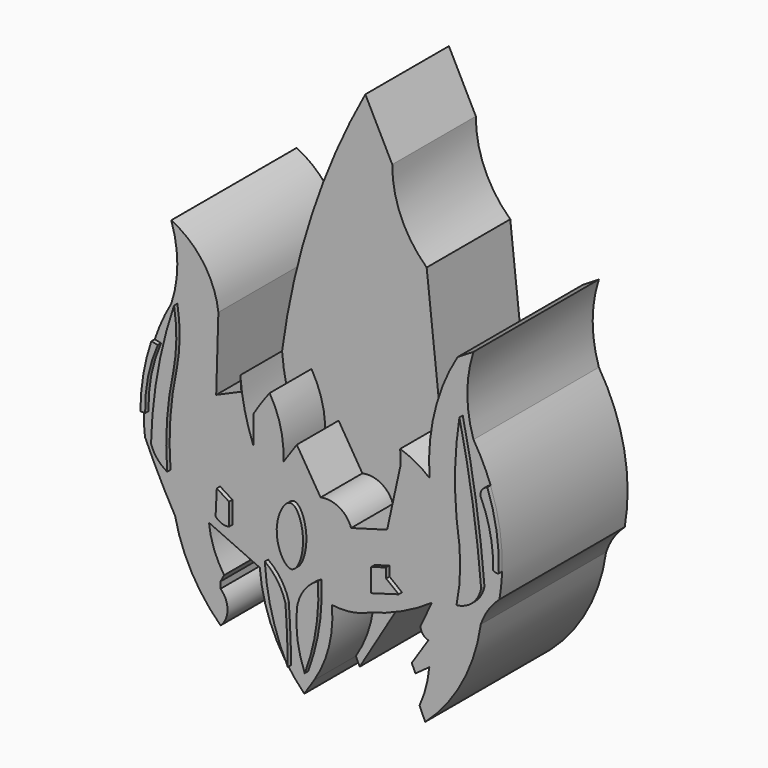
from build123d import *

# Parameters (mm, degrees)
F1_DEPTH = 19.05
F3_DEPTH = 6.35
F5_DEPTH = 0.508
F7_DEPTH = 19.05


with BuildPart() as f1:
    # F0 (on Front) → F1 (new body)
    with BuildSketch(Plane.XZ):
        with BuildLine():
            Line((29.9496520311, 63.0492046475), (26.6780648381, 69.4930180907))
            ThreePointArc((26.6780648381, 69.4930180907), (20.196677745, 54.5788891456), (16.5568571538, 38.7298725545))
            Line((16.5568571538, 38.7298725545), (16.690030694, 36.9986146688))
            Line((16.690030694, 36.9986146688), (13.6270336807, 35.6668755412))
            Line((13.6270336807, 35.6668755412), (13.8933807611, 44.5895195007))
            ThreePointArc((13.8933807611, 44.5895195007), (12.059862786, 49.3226978569), (8.1669082865, 52.579946816))
            ThreePointArc((8.1669082865, 52.579946816), (8.9030534245, 48.1186248362), (8.1669082865, 43.6573028564))
            ThreePointArc((8.1669082865, 43.6573028564), (5.3520163839, 36.253752533), (4.9707368016, 28.3423177898))
            ThreePointArc((4.9707368016, 28.3423177898), (6.7166015974, 24.6666402647), (8.6351158097, 21.0780538619))
            ThreePointArc((8.6351158097, 21.0780538619), (10.6419239697, 15.6995218737), (14.1597287729, 11.1629003659))
            ThreePointArc((14.1597287729, 11.1629003659), (15.0065668093, 13.1274904124), (14.1597287729, 15.092080459))
            Line((14.1597287729, 15.092080459), (14.1597287729, 15.8760100603))
            Line((14.1597287729, 15.8760100603), (14.5907411352, 16.6818480939))
            ThreePointArc((14.5907411352, 16.6818480939), (13.3602258193, 19.0818671101), (12.7488272265, 21.7087380588))
            Line((12.7488272265, 21.7087380588), (18.9269129187, 18.9074929804))
            ThreePointArc((18.9269129187, 18.9074929804), (20.5891941392, 12.5557803876), (24.337535724, 7.1652918123))
            Line((24.337535724, 7.1652918123), (25.5271047354, 9.0072061867))
            Line((25.5271047354, 9.0072061867), (25.9875822812, 8.0095026642))
            Line((25.9875822812, 8.0095026642), (32.2040431201, 18.4086412191))
            ThreePointArc((32.2040431201, 18.4086412191), (36.1728690985, 19.8478549134), (39.840310812, 21.9389759004))
            Line((39.840310812, 21.9389759004), (38.4588763118, 18.9842395484))
            ThreePointArc((38.4588763118, 18.9842395484), (38.7377638768, 18.2275381272), (39.4182056189, 17.7946705371))
            Line((39.4182056189, 17.7946705371), (37.4002235949, 14.7152889057))
            Line((37.4002235949, 14.7152889057), (37.8449037671, 13.7271098793))
            Line((37.8449037671, 13.7271098793), (39.5333245397, 14.955053106))
            ThreePointArc((39.5333245397, 14.955053106), (39.1304643178, 12.6593692531), (38.343757391, 10.4653881863))
            Line((38.343757391, 10.4653881863), (39.0344746411, 8.9304596186))
            ThreePointArc((39.0344746411, 8.9304596186), (43.5369991038, 14.6406633619), (45.7881577313, 21.5552449226))
            ThreePointArc((45.7881577313, 21.5552449226), (46.6985474779, 23.4097692807), (48.0521768332, 24.9704606831))
            ThreePointArc((48.0521768332, 24.9704606831), (47.9784626543, 33.30312196), (44.9055731297, 41.0488322377))
            ThreePointArc((44.9055731297, 41.0488322377), (44.1544418608, 45.7455441356), (44.9055731297, 50.4422560334))
            Line((44.9055731297, 50.4422560334), (42.9699420929, 49.2538958788))
            ThreePointArc((42.9699420929, 49.2538958788), (40.1761373605, 42.4912587379), (39.559867233, 35.2002494037))
            ThreePointArc((39.559867233, 35.2002494037), (37.8715608426, 36.3530467771), (35.9947867692, 37.1636264026))
            Line((35.9947867692, 37.1636264026), (34.1347455978, 53.3873215318))
            ThreePointArc((34.1347455978, 53.3873215318), (31.023684759, 57.7770885722), (29.9496520311, 63.0492046475))
        make_face()
    extrude(amount=F1_DEPTH)

    # F2 (on face) → F3 (cut)
    with BuildSketch(Plane.XZ.offset(19.05)):
        with BuildLine():
            Line((36.058422178, 35.5022437871), (34.1347455978, 53.3873215318))
            ThreePointArc((34.1347455978, 53.3873215318), (31.023684759, 57.7770885722), (29.9496520311, 63.0492046475))
            Line((29.9496520311, 63.0492046475), (26.6780648381, 69.4930180907))
            ThreePointArc((26.6780648381, 69.4930180907), (20.196677745, 54.5788891456), (16.5568571538, 38.7298725545))
            ThreePointArc((16.5568571538, 38.7298725545), (17.0958351547, 35.1595534204), (18.1488934904, 31.7057520151))
            Line((18.1488934904, 31.7057520151), (18.1488934904, 35.0895822048))
            ThreePointArc((18.1488934904, 35.0895822048), (19.0937254429, 36.5651386602), (20.1296713203, 37.9782170057))
            ThreePointArc((20.1296713203, 37.9782170057), (21.4851518176, 34.6808703775), (21.7803176492, 31.128026545))
            Line((21.7803176492, 31.128026545), (23.4309658408, 33.5214659572))
            Line((23.4309658408, 33.5214659572), (26.3196006417, 28.8171190768))
            ThreePointArc((26.3196006417, 28.8171190768), (28.572476319, 28.4980796307), (30.0335567445, 26.753809303))
            Line((30.0335567445, 26.753809303), (34.4077758491, 27.9917959124))
            Line((34.4077758491, 27.9917959124), (36.058422178, 35.5022437871))
        make_face()
        with BuildLine():
            ThreePointArc((27.7005694807, 17.765365541), (27.3434417277, 13.2052238558), (25.5271047354, 9.0072061867))
            Line((25.5271047354, 9.0072061867), (25.9875822812, 8.0095026642))
            Line((25.9875822812, 8.0095026642), (32.2040431201, 18.4086412191))
            ThreePointArc((32.2040431201, 18.4086412191), (29.9985149549, 17.7635037289), (27.7005694807, 17.765365541))
        make_face()
    extrude(amount=-F3_DEPTH, mode=Mode.SUBTRACT)

    # F4 (on face) → F5 (join)
    with BuildSketch(Plane.XZ.offset(19.05)):
        with BuildLine():
            ThreePointArc((46.2402813137, 25.7814861834), (45.2187335689, 34.5397157881), (43.6017140746, 43.207783252))
            ThreePointArc((43.6017140746, 43.207783252), (43.0662958477, 36.3634908572), (43.6017140746, 29.5191984624))
            ThreePointArc((43.6017140746, 29.5191984624), (43.6658279482, 26.2475841373), (43.2472340763, 23.0022259057))
            ThreePointArc((43.2472340763, 23.0022259057), (45.2061975799, 23.8938442422), (46.2402813137, 25.7814861834))
        make_face()
        with BuildLine():
            add(Edge.make_bspline(
                [(23.1004096568, 27.3739621043), (22.294183528, 27.387058336), (20.4669677334, 23.8183321525), (23.2573713599, 18.5786067922), (25.274701666, 23.8290656185), (23.8975818691, 27.3610129433), (23.1004096568, 27.3739621043)],
                knots=[0, 0, 0, 0, 0.2520256396, 0.5034254726, 0.7508046074, 1, 1, 1, 1], degree=3))
        make_face()
        with BuildLine():
            ThreePointArc((26.4196954668, 20.0969539583), (24.7008830261, 18.5573119841), (23.8514598459, 16.4117831737))
            ThreePointArc((23.8514598459, 16.4117831737), (23.9183277727, 13.0038753965), (24.8005911708, 9.7114723176))
            ThreePointArc((24.8005911708, 9.7114723176), (26.1535443213, 14.8194965183), (26.4196954668, 20.0969539583))
        make_face()
        with BuildLine():
            ThreePointArc((22.4556811154, 16.4117831737), (21.5251128707, 18.4763731071), (19.9432764202, 20.0969539583))
            ThreePointArc((19.9432764202, 20.0969539583), (20.8059126552, 14.7609071695), (22.7348357439, 9.7114723176))
            ThreePointArc((22.7348357439, 9.7114723176), (22.6477960375, 13.0638166167), (22.4556811154, 16.4117831737))
        make_face()
        with BuildLine():
            ThreePointArc((47.6991795003, 28.1513109803), (48.0318296747, 28.0236684218), (48.3848965621, 28.0715488384))
            ThreePointArc((48.3848965621, 28.0715488384), (48.1179191479, 32.5176082952), (46.9887144833, 36.8261600773))
            ThreePointArc((46.9887144833, 36.8261600773), (46.369528668, 36.3848095296), (46.1505949497, 35.6566272676))
            ThreePointArc((46.1505949497, 35.6566272676), (47.3623200822, 31.9942253821), (47.6991795003, 28.1513109803))
        make_face()
        with BuildLine():
            ThreePointArc((8.9119747281, 43.9040847123), (6.9184195013, 36.1498479724), (6.1123180203, 28.1841307878))
            ThreePointArc((6.1123180203, 28.1841307878), (6.8779842089, 26.8316177222), (8.073723875, 25.838771835))
            ThreePointArc((8.073723875, 25.838771835), (8.0540428558, 31.3970840751), (8.8405050337, 36.899510771))
            ThreePointArc((8.8405050337, 36.899510771), (9.1865848284, 40.3986312024), (8.9119747281, 43.9040847123))
        make_face()
        with BuildLine():
            ThreePointArc((5.3984993137, 31.2417112291), (5.7384809183, 35.2204489081), (6.927839946, 39.0324518085))
            Line((6.927839946, 39.0324518085), (6.1507176873, 39.1854316164))
            ThreePointArc((6.1507176873, 39.1854316164), (5.1668291163, 35.2690259496), (4.820222396, 31.2458264954))
            Line((4.820222396, 31.2458264954), (5.3984993137, 31.2417112291))
        make_face()
        Polygon((32.8636430204, 20.9054443985), (36.2221449614, 21.8757595867), (34.6921607852, 23.0699963868), (34.6921607852, 24.2642313242), (32.8636430204, 23.7044338137), align=None)
        with BuildLine():
            Line((14.1096655279, 26.0258354247), (13.9593891799, 22.9824855924))
            ThreePointArc((13.9593891799, 22.9824855924), (14.6970245146, 22.4682314443), (15.5936423689, 22.4001165479))
            Line((15.5936423689, 22.4001165479), (15.5936423689, 25.0865276903))
            Line((15.5936423689, 25.0865276903), (14.1096655279, 26.0258354247))
        make_face()
    extrude(amount=F5_DEPTH)

    # F6 (on face) → F7 (cut, through all)
    with BuildSketch(Plane.XZ.offset(19.05)):
        Polygon((36.058422178, 35.5022437871), (35.9947867692, 37.1636264026), (34.1347455978, 53.3873215318), align=None)
    extrude(amount=-F7_DEPTH, mode=Mode.SUBTRACT)


solid = f1.part
